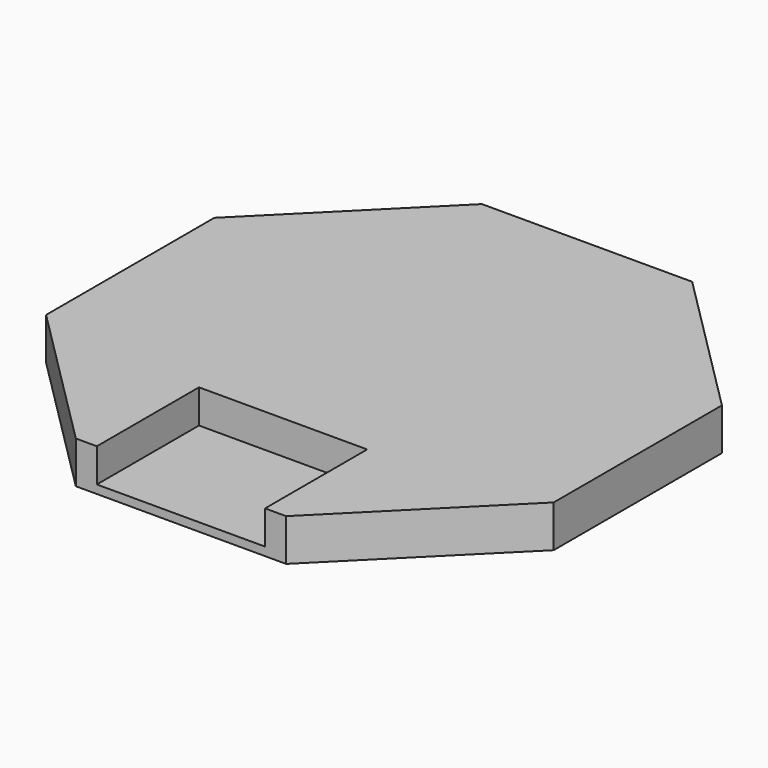
from build123d import *

# Parameters (mm, degrees)
F1_DEPTH = 12.7
F2_W     = 50.8
F2_H     = 38.551281
F3_DEPTH = 10.16


with BuildPart() as f1:
    # F0 (on Top) → F1 (new body)
    with BuildSketch(Plane.XY):
        Polygon((76.651281, -31.75), (76.651281, 31.75), (31.75, 76.651281), (-31.75, 76.651281), (-76.651281, 31.75), (-76.651281, -31.75), (-31.75, -76.651281), (31.75, -76.651281), align=None)
    extrude(amount=F1_DEPTH)

    # F2 (on face) → F3 (cut)
    with BuildSketch(Plane.XY.offset(12.7)):
        with Locations((0, -57.375641)):
            Rectangle(F2_W, F2_H)
    extrude(amount=-F3_DEPTH, mode=Mode.SUBTRACT)


solid = f1.part
